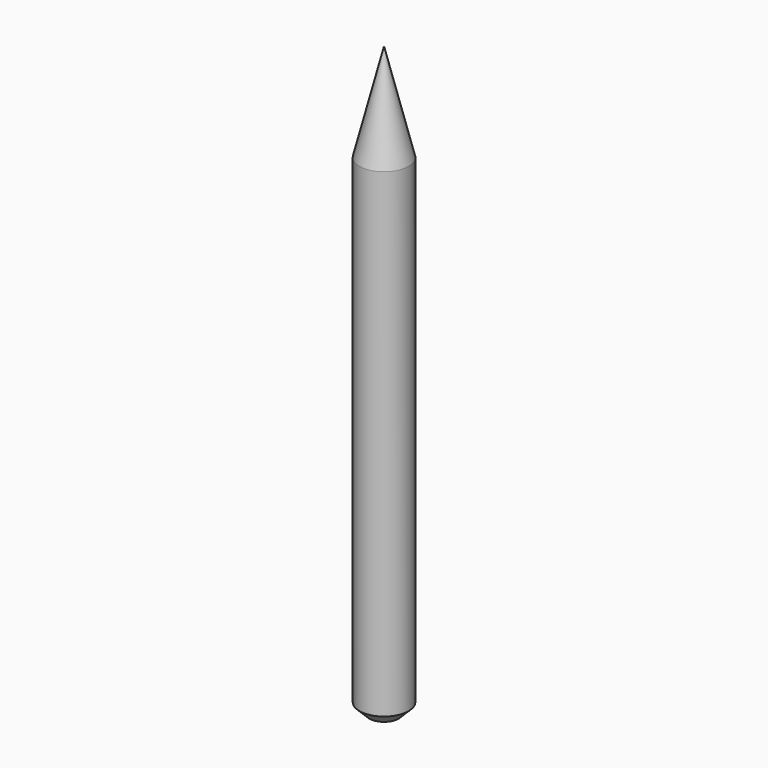
from build123d import *

# Parameters (mm, degrees)
F2_SIZE = 2.54


with BuildPart() as f1:
    # F0 (on Front) → F1 (revolve)
    with BuildSketch(Plane.XZ):
        Polygon((6.35, 127), (0, 152.4), (0, 0), (6.35, 0), align=None)
    revolve(axis=Axis((0, 0, 76.2), (0, 0, -1)))

    # F2
    f2_edges = [f1.edges().sort_by_distance(p)[0] for p in [
        (-6.35, 0, 0),
    ]]
    chamfer(f2_edges, length=F2_SIZE)


solid = f1.part
